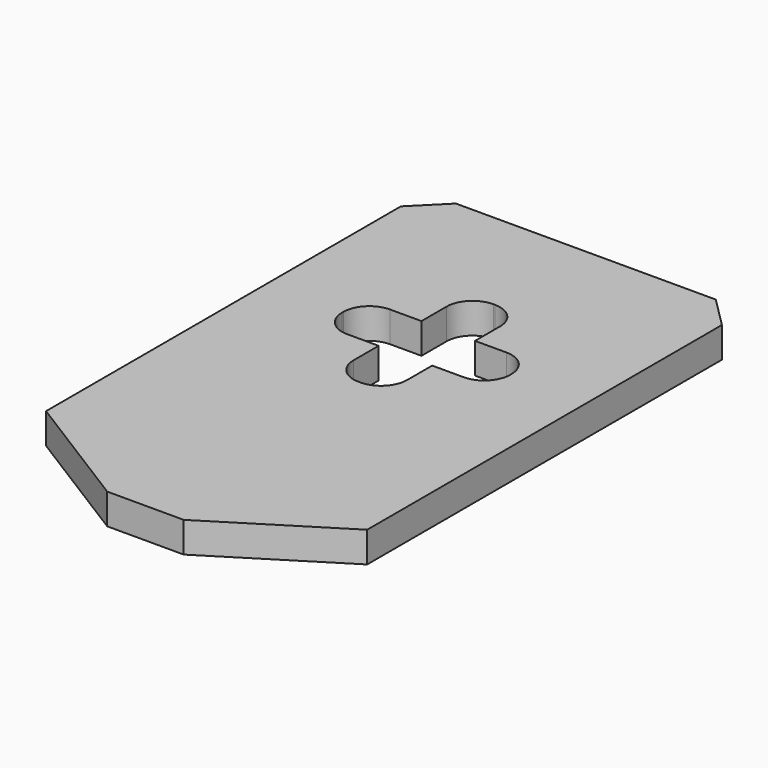
from build123d import *

# Parameters (mm, degrees)
F0_W       = 21
F0_H       = 36
F1_DEPTH   = 2
F2_SIZE    = 2
F3_SIZE2   = 8
F3_SIZE    = 5
F3_2_SIZE2 = 8
F3_2_SIZE  = 5
F4_R       = 1.7


with BuildPart() as f1:
    # F0 (on Top) → F1 (new body)
    with BuildSketch(Plane.XY):
        Rectangle(F0_W, F0_H)
        Polygon((1.75, 3.25), (1.75, -0.5), (-1.75, -0.5), (-1.75, 3.25), (-5.5, 3.25), (-5.5, 6.75), (-1.75, 6.75), (-1.75, 10.5), (1.75, 10.5), (1.75, 6.75), (5.5, 6.75), (5.5, 3.25), align=None, mode=Mode.SUBTRACT)
    extrude(amount=F1_DEPTH)

    # F2
    f2_edges = [f1.edges().sort_by_distance(p)[0] for p in [
        (10.5, 18, 1),
        (-10.5, 18, 1),
    ]]
    chamfer(f2_edges, length=F2_SIZE)

    # F3
    f3_edges = [f1.edges().sort_by_distance(p)[0] for p in [
        (10.5, -18, 1),
    ]]
    f3_side = f1.faces().sort_by_distance((10.5, -1, 1))[0]
    chamfer(f3_edges, length=F3_SIZE, length2=F3_SIZE2, reference=f3_side)

    # F3#2
    f3_2_edges = [f1.edges().sort_by_distance(p)[0] for p in [
        (-10.5, -18, 1),
    ]]
    f3_2_side = f1.faces().sort_by_distance((-10.5, -1, 1))[0]
    chamfer(f3_2_edges, length=F3_2_SIZE, length2=F3_2_SIZE2, reference=f3_2_side)

    # F4
    f4_edges = [f1.edges().sort_by_distance(p)[0] for p in [
        (5.5, 6.75, 1),
        (1.75, 10.5, 1),
        (-1.75, 10.5, 1),
        (-5.5, 6.75, 1),
        (-5.5, 3.25, 1),
        (-1.75, -0.5, 1),
        (1.75, -0.5, 1),
        (5.5, 3.25, 1),
    ]]
    fillet(f4_edges, radius=F4_R)


solid = f1.part
